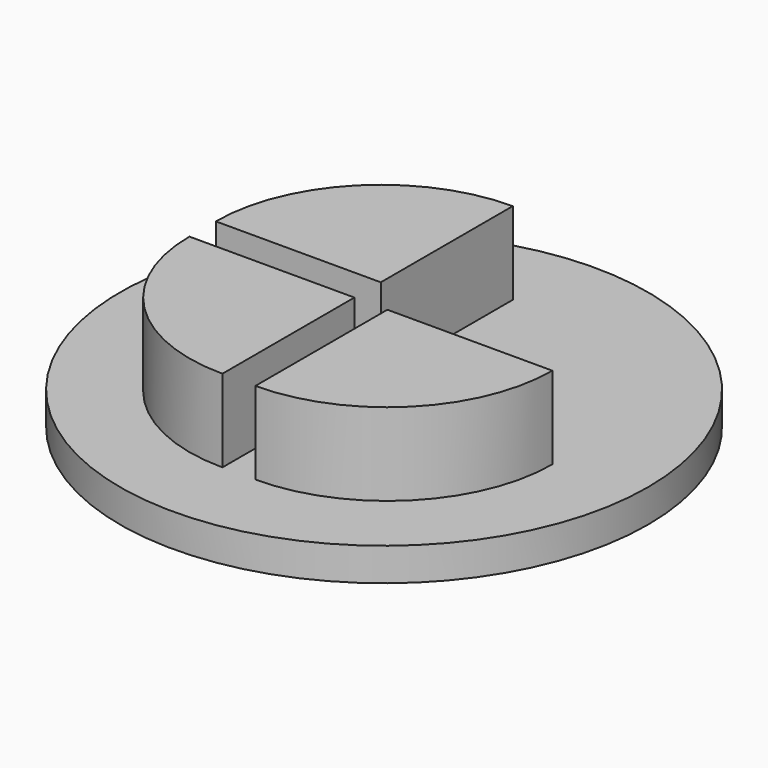
from build123d import *

# Parameters (mm, degrees)
CYLINDER_R        = 80
CYLINDER_DEPTH    = 10
CYLINDER001_W     = 50
CYLINDER001_H     = 30
CYLINDER001_ANGLE = 90
CYLINDER002_W     = 50
CYLINDER002_H     = 30
CYLINDER002_ANGLE = 90
CYLINDER003_W     = 50
CYLINDER003_H     = 30
CYLINDER003_ANGLE = 90


with BuildPart() as plato:
    # Cylinder → Cylinder (new body)
    with BuildSketch(Plane.XY.offset(-5)):
        Circle(CYLINDER_R)
    extrude(amount=CYLINDER_DEPTH)


with BuildPart() as obj1:
    # Cylinder001 → Cylinder001 (revolve)
    with BuildSketch(Plane(origin=(-5, 5, 0), x_dir=(0, 1, 0), z_dir=(1, 0, 0))):
        with Locations((25, 15)):
            Rectangle(CYLINDER001_W, CYLINDER001_H)
    revolve(axis=Axis((-5, 5, 0), (0, 0, 1)), revolution_arc=CYLINDER001_ANGLE)


with BuildPart() as obj2:
    # Cylinder002 → Cylinder002 (revolve)
    with BuildSketch(Plane(origin=(-5, -5, 0), x_dir=(-1, 0, 0), z_dir=(0, 1, 0))):
        with Locations((25, 15)):
            Rectangle(CYLINDER002_W, CYLINDER002_H)
    revolve(axis=Axis((-5, -5, 0), (0, 0, 1)), revolution_arc=CYLINDER002_ANGLE)


with BuildPart() as obj3:
    # Cylinder003 → Cylinder003 (revolve)
    with BuildSketch(Plane(origin=(5, -5, 0), x_dir=(0, -1, 0), z_dir=(-1, 0, 0))):
        with Locations((25, 15)):
            Rectangle(CYLINDER003_W, CYLINDER003_H)
    revolve(axis=Axis((5, -5, 0), (0, 0, 1)), revolution_arc=CYLINDER003_ANGLE)


solid = Compound([plato.part, obj1.part, obj2.part, obj3.part])
